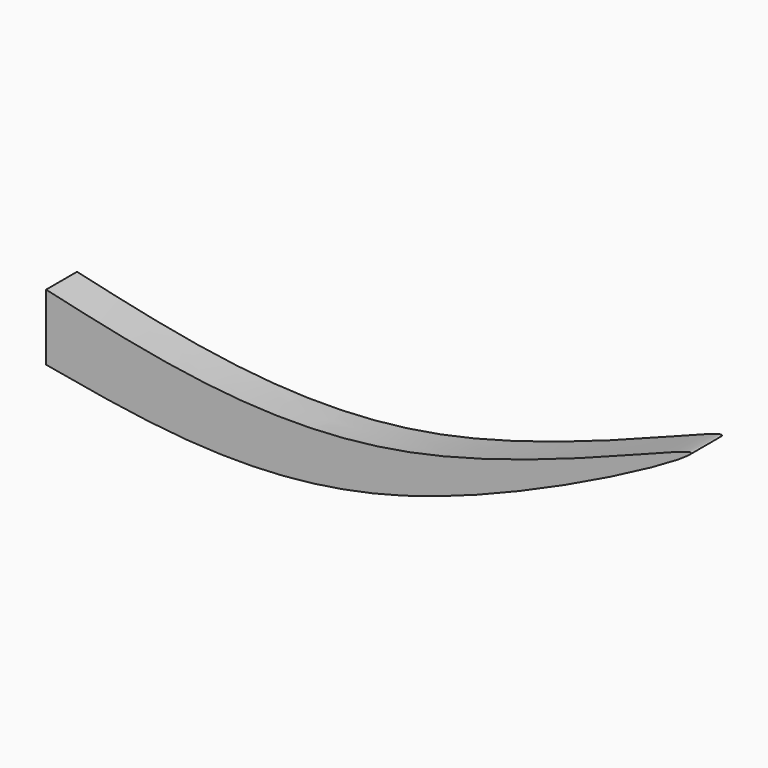
from build123d import *

# Parameters (mm, degrees)
F1_DEPTH = 1.27


with BuildPart() as f1:
    # F0 (on Front) → F1 (new body)
    with BuildSketch(Plane.XZ):
        with BuildLine():
            add(Edge.make_bspline(
                [(0, -2.1713943579), (3.5312793068, -2.8067980197), (10.4168169978, -4.0457528445), (26.1952391106, 4.7332063392), (10.8664742559, -2.4841087437), (3.7793399186, -0.8639683562), (0, 0)],
                knots=[0, 0, 0, 0, 0.2579832616, 0.5030339461, 0.7349840356, 1, 1, 1, 1], degree=3))
            Line((0, 0), (0, -2.1713943579))
        make_face()
    extrude(amount=F1_DEPTH)


solid = f1.part
